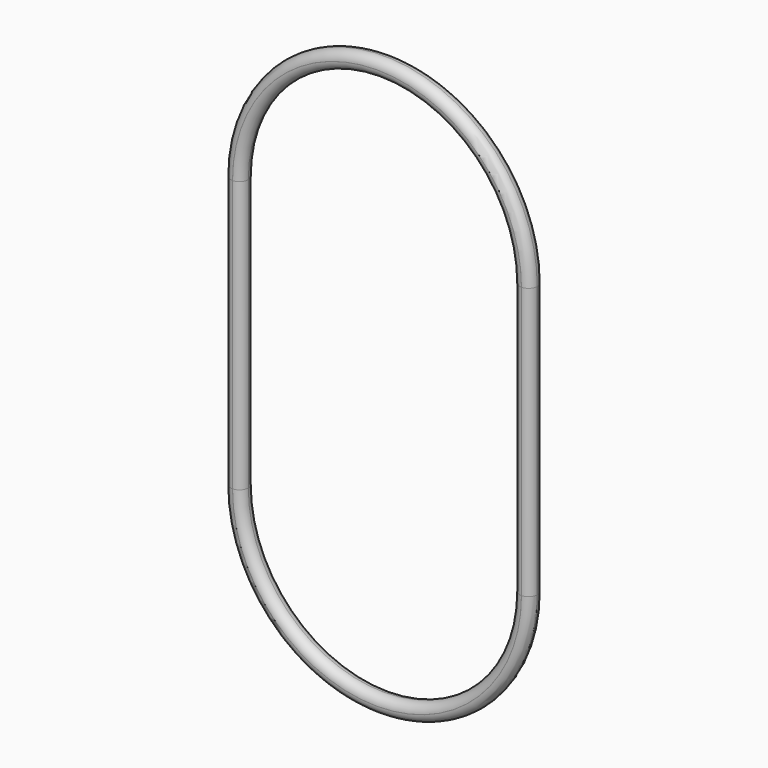
from build123d import *

# Parameters (mm, degrees)
F1_DEPTH = 3.87
F2_R     = 1.931371


with BuildPart() as f1:
    # F0 (on Front) → F1 (new body)
    with BuildSketch(Plane.XZ):
        with BuildLine():
            ThreePointArc((33.88, 29.696622), (0, 63.576622), (-33.88, 29.696622))
            Line((-33.88, 29.696622), (-33.88, -30.303378))
            ThreePointArc((-33.88, -30.303378), (0, -64.183378), (33.88, -30.303378))
            Line((33.88, -30.303378), (33.88, 29.696622))
        make_face()
        with BuildLine():
            Line((-30, -30.303378), (-30, 29.696622))
            ThreePointArc((-30, 29.696622), (0, 59.696622), (30, 29.696622))
            Line((30, 29.696622), (30, -30.303378))
            ThreePointArc((30, -30.303378), (0, -60.303378), (-30, -30.303378))
        make_face(mode=Mode.SUBTRACT)
    extrude(amount=F1_DEPTH)

    # F2
    f2_edges = [f1.edges().sort_by_distance(p)[0] for p in [
        (0, 0, 63.576622),
        (-33.88, 0, -0.303378),
        (0, 0, -64.183378),
        (33.88, 0, -0.303378),
        (0, 0, 59.696622),
        (30, 0, -0.303378),
        (0, 0, -60.303378),
        (-30, 0, -0.303378),
        (0, -3.87, 63.576622),
        (-33.88, -3.87, -0.303378),
        (0, -3.87, -64.183378),
        (33.88, -3.87, -0.303378),
        (0, -3.87, 59.696622),
        (30, -3.87, -0.303378),
        (0, -3.87, -60.303378),
        (-30, -3.87, -0.303378),
    ]]
    fillet(f2_edges, radius=F2_R)


solid = f1.part
